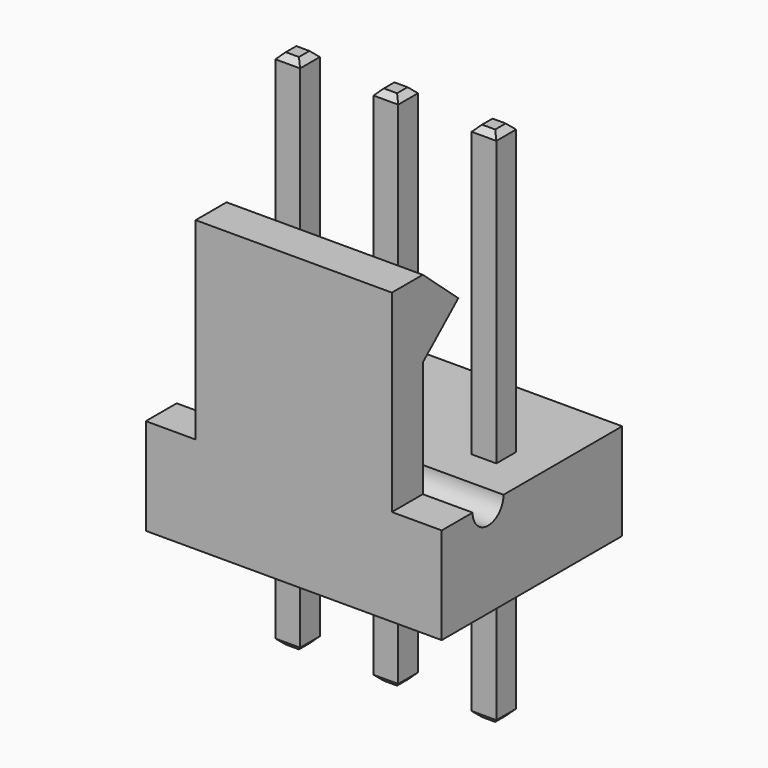
from build123d import *

# Parameters (mm, degrees)
SKETCH_W          = 7.66
SKETCH_H          = 5.84
PAD_DEPTH         = 2.5
SKETCH001_W       = 5.08
SKETCH001_H       = 1
PAD001_DEPTH      = 5
PAD002_DEPTH      = 5.08
POCKET_DEPTH      = 7.661
SKETCH011_W       = 0.64
SKETCH011_H       = 0.64
PAD003_DEPTH      = 10
PAD003_DEPTH_BACK = 3.5
CHAMFER002_SIZE   = 0.15
CHAMFER003_SIZE   = 0.15
SKETCH012_W       = 0.64
SKETCH012_H       = 0.64
PAD004_DEPTH      = 10
PAD004_DEPTH_BACK = 3.5
CHAMFER001_SIZE   = 0.15
CHAMFER004_SIZE   = 0.15
SKETCH013_W       = 0.64
SKETCH013_H       = 0.64
PAD005_DEPTH      = 10
PAD005_DEPTH_BACK = 3.5
CHAMFER_SIZE      = 0.15
CHAMFER005_SIZE   = 0.15


with BuildPart() as pocket:
    # Sketch → Pad (new body)
    with BuildSketch(Plane(origin=(0, 0, 0), x_dir=(-1, 0, 0), z_dir=(0, 0, 1))):
        with Locations((-2.54, 0.38)):
            Rectangle(SKETCH_W, SKETCH_H)
    extrude(amount=PAD_DEPTH)

    # Sketch001 (on Face6 of Pad) → Pad001 (new body)
    with BuildSketch(Plane(origin=(0, 0, 2.5), x_dir=(-1, 0, 0), z_dir=(0, 0, 1))):
        with Locations((-2.54, 2.8)):
            Rectangle(SKETCH001_W, SKETCH001_H)
    extrude(amount=PAD001_DEPTH)

    # Sketch002 (on Face7 of Pad001) → Pad002 (new body)
    with BuildSketch(Plane(origin=(0, 0, 0), x_dir=(0, -1, 0), z_dir=(-1, 0, 0))):
        Polygon((2.3, 7.5), (2.3, 5.5), (1.15, 6.5), align=None)
    extrude(amount=-PAD002_DEPTH)

    # Sketch015 (on Face3 of Pad002) → Pocket (cut, through all)
    with BuildSketch(Plane(origin=(-1.29, 0, 0), x_dir=(0, -1, 0), z_dir=(-1, 0, 0))):
        with BuildLine():
            ThreePointArc((1.3, 2.5), (1.8, 2), (2.3, 2.5))
            Line((1.3, 2.5), (2.3, 2.5))
        make_face()
    extrude(amount=-POCKET_DEPTH, mode=Mode.SUBTRACT)


with BuildPart() as chamfer003:
    # Sketch011 → Pad003 (new body, two sides)
    with BuildSketch(Plane(origin=(0, 0, 0), x_dir=(-1, 0, 0), z_dir=(0, 0, 1))) as pad003_sk:
        Rectangle(SKETCH011_W, SKETCH011_H)
    extrude(amount=PAD003_DEPTH)
    extrude(pad003_sk.sketch, amount=-PAD003_DEPTH_BACK)

    # Chamfer002
    chamfer002_edges = [chamfer003.edges().sort_by_distance(p)[0] for p in [
        (0, -0.32, 10),
        (-0.32, 0, 10),
        (0, 0.32, 10),
        (0.32, 0, 10),
    ]]
    chamfer(chamfer002_edges, length=CHAMFER002_SIZE)

    # Chamfer003
    chamfer003_edges = [chamfer003.edges().sort_by_distance(p)[0] for p in [
        (0, -0.32, -3.5),
        (-0.32, 0, -3.5),
        (0, 0.32, -3.5),
        (0.32, 0, -3.5),
    ]]
    chamfer(chamfer003_edges, length=CHAMFER003_SIZE)


with BuildPart() as chamfer004:
    # Sketch012 → Pad004 (new body, two sides)
    with BuildSketch(Plane(origin=(0, 0, 0), x_dir=(-1, 0, 0), z_dir=(0, 0, 1))) as pad004_sk:
        with Locations((-2.54, 0)):
            Rectangle(SKETCH012_W, SKETCH012_H)
    extrude(amount=PAD004_DEPTH)
    extrude(pad004_sk.sketch, amount=-PAD004_DEPTH_BACK)

    # Chamfer001
    chamfer001_edges = [chamfer004.edges().sort_by_distance(p)[0] for p in [
        (2.54, -0.32, 10),
        (2.22, 0, 10),
        (2.54, 0.32, 10),
        (2.86, 0, 10),
    ]]
    chamfer(chamfer001_edges, length=CHAMFER001_SIZE)

    # Chamfer004
    chamfer004_edges = [chamfer004.edges().sort_by_distance(p)[0] for p in [
        (2.54, -0.32, -3.5),
        (2.22, 0, -3.5),
        (2.54, 0.32, -3.5),
        (2.86, 0, -3.5),
    ]]
    chamfer(chamfer004_edges, length=CHAMFER004_SIZE)


with BuildPart() as chamfer005:
    # Sketch013 → Pad005 (new body, two sides)
    with BuildSketch(Plane(origin=(0, 0, 0), x_dir=(-1, 0, 0), z_dir=(0, 0, 1))) as pad005_sk:
        with Locations((-5.08, 0)):
            Rectangle(SKETCH013_W, SKETCH013_H)
    extrude(amount=PAD005_DEPTH)
    extrude(pad005_sk.sketch, amount=-PAD005_DEPTH_BACK)

    # Chamfer
    chamfer_edges = [chamfer005.edges().sort_by_distance(p)[0] for p in [
        (5.08, -0.32, 10),
        (4.76, 0, 10),
        (5.08, 0.32, 10),
        (5.4, 0, 10),
    ]]
    chamfer(chamfer_edges, length=CHAMFER_SIZE)

    # Chamfer005
    chamfer005_edges = [chamfer005.edges().sort_by_distance(p)[0] for p in [
        (5.08, -0.32, -3.5),
        (4.76, 0, -3.5),
        (5.08, 0.32, -3.5),
        (5.4, 0, -3.5),
    ]]
    chamfer(chamfer005_edges, length=CHAMFER005_SIZE)


solid = Compound([pocket.part, chamfer003.part, chamfer004.part, chamfer005.part])
